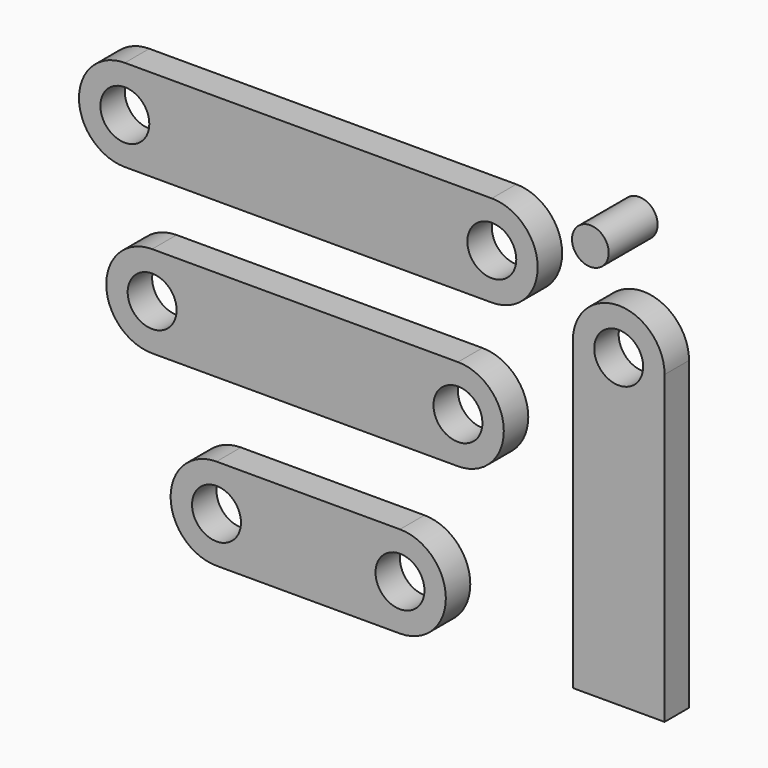
from build123d import *

# Parameters (mm, degrees)
F1_R      = 4
F2_DEPTH  = 5
F3_R      = 4
F4_DEPTH  = 5
F5_R      = 4
F6_DEPTH  = 5
F7_R      = 4
F8_DEPTH  = 5
F9_R      = 3
F10_DEPTH = 10


with BuildPart() as f2:
    # F1 (on Front) → F2 (new body)
    with BuildSketch(Plane.XZ):
        with BuildLine():
            Line((30, 7.5), (0, 7.5))
            ThreePointArc((0, 7.5), (-7.5, 0), (0, -7.5))
            Line((0, -7.5), (30, -7.5))
            ThreePointArc((30, -7.5), (37.5, 0), (30, 7.5))
        make_face()
        Circle(F1_R, mode=Mode.SUBTRACT)
        with Locations((30, 0)):
            Circle(F1_R, mode=Mode.SUBTRACT)
    extrude(amount=F2_DEPTH)


with BuildPart() as f4:
    # F3 (on Front) → F4 (new body)
    with BuildSketch(Plane.XZ):
        with BuildLine():
            Line((39.4787162915, 34.6610803902), (-10.5212837085, 34.6610803902))
            ThreePointArc((-10.5212837085, 34.6610803902), (-18.0212837085, 27.1610803902), (-10.5212837085, 19.6610803902))
            Line((-10.5212837085, 19.6610803902), (39.4787162915, 19.6610803902))
            ThreePointArc((39.4787162915, 19.6610803902), (46.9787162915, 27.1610803902), (39.4787162915, 34.6610803902))
        make_face()
        with Locations((-10.5212837085, 27.1610803902)):
            Circle(F3_R, mode=Mode.SUBTRACT)
        with Locations((39.4787162915, 27.1610803902)):
            Circle(F3_R, mode=Mode.SUBTRACT)
    extrude(amount=F4_DEPTH)


with BuildPart() as f6:
    # F5 (on Front) → F6 (new body)
    with BuildSketch(Plane.XZ):
        with BuildLine():
            Line((45.0163689256, 60.0222420692), (-14.9836310744, 60.0222420692))
            ThreePointArc((-14.9836310744, 60.0222420692), (-22.4836310744, 52.5222420692), (-14.9836310744, 45.0222420692))
            Line((-14.9836310744, 45.0222420692), (45.0163689256, 45.0222420692))
            ThreePointArc((45.0163689256, 45.0222420692), (52.5163689256, 52.5222420692), (45.0163689256, 60.0222420692))
        make_face()
        with Locations((-14.9836310744, 52.5222420692)):
            Circle(F5_R, mode=Mode.SUBTRACT)
        with Locations((45.0163689256, 52.5222420692)):
            Circle(F5_R, mode=Mode.SUBTRACT)
    extrude(amount=F6_DEPTH)


with BuildPart() as f8:
    # F7 (on Front) → F8 (new body)
    with BuildSketch(Plane.XZ):
        with BuildLine():
            Line((58.2626014948, 43.849914521), (58.2626014948, -6.150085479))
            Line((58.2626014948, -6.150085479), (73.2626014948, -6.150085479))
            Line((73.2626014948, -6.150085479), (73.2626014948, 43.849914521))
            ThreePointArc((73.2626014948, 43.849914521), (65.7626014948, 51.349914521), (58.2626014948, 43.849914521))
        make_face()
        with Locations((65.7626014948, 43.849914521)):
            Circle(F7_R, mode=Mode.SUBTRACT)
    extrude(amount=F8_DEPTH)


with BuildPart() as f10:
    # F9 (on Front) → F10 (new body)
    with BuildSketch(Plane.XZ):
        with Locations((65.1290416718, 61.7363639176)):
            Circle(F9_R)
    extrude(amount=F10_DEPTH)


solid = Compound([f2.part, f4.part, f6.part, f8.part, f10.part])
